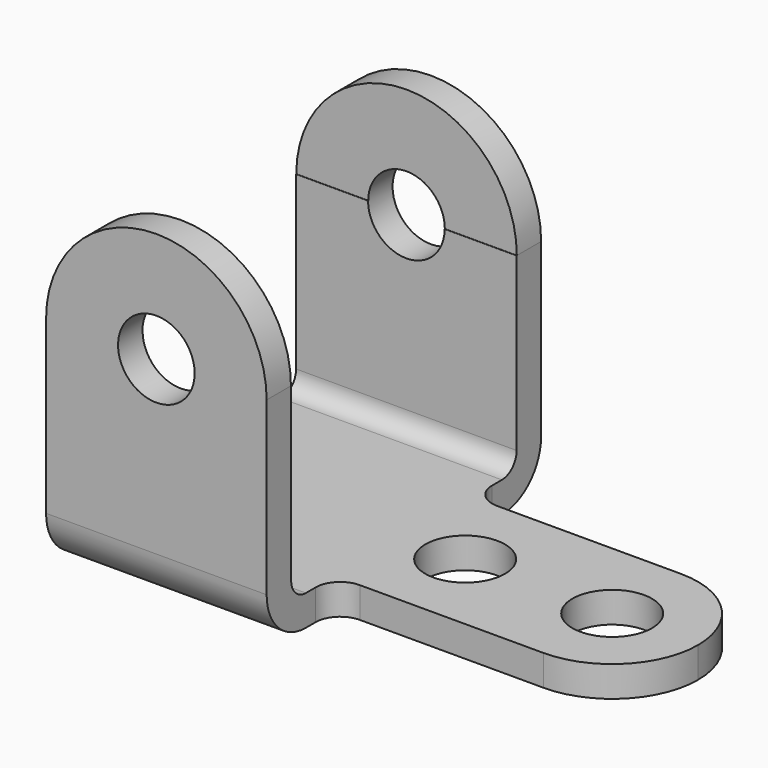
from build123d import *

# Parameters (mm, degrees)
F1_DEPTH  = 57.15
F3_DEPTH  = 7.874
F5_DEPTH  = 7.874
F6_R      = 9.92251
F7_DEPTH  = 25.4
F8_R      = 9.92251
F9_DEPTH  = 25.4
F10_W     = 76.2
F10_H     = 44.45
F11_DEPTH = 7.9375
F12_R     = 10.3251
F13_DEPTH = 25.4
F14_R     = 6.35


with BuildPart() as f1:
    # F0 (on Right) → F1 (new body)
    with BuildSketch(Plane.YZ):
        with BuildLine():
            ThreePointArc((-12.7, 12.7), (-8.9802561211, 3.7197438789), (0, 0))
            Line((0, 0), (63.5, 0))
            ThreePointArc((63.5, 0), (72.4802561211, 3.7197438789), (76.2, 12.7))
            Line((76.2, 12.7), (76.2, 57.15))
            Line((76.2, 57.15), (68.2625, 57.15))
            Line((68.2625, 57.15), (68.2625, 12.7))
            ThreePointArc((68.2625, 12.7), (66.8675960454, 9.3324039546), (63.5, 7.9375))
            Line((63.5, 7.9375), (0, 7.9375))
            ThreePointArc((0, 7.9375), (-3.3675960454, 9.3324039546), (-4.7625, 12.7))
            Line((-4.7625, 12.7), (-4.7625, 57.15))
            Line((-4.7625, 57.15), (-12.7, 57.15))
            Line((-12.7, 57.15), (-12.7, 12.7))
        make_face()
    extrude(amount=F1_DEPTH)

    # F2 (on face) → F3 (join)
    with BuildSketch(Plane.XZ.offset(12.7)):
        with BuildLine():
            Line((0, 57.15), (57.15, 57.15))
            ThreePointArc((57.15, 57.15), (28.575, 85.725), (0, 57.15))
        make_face()
    extrude(amount=-F3_DEPTH)

    # F4 (on face) → F5 (join)
    with BuildSketch(Plane(origin=(0, 76.2, 0), x_dir=(-1, 0, 0), z_dir=(0, 1, 0))):
        with BuildLine():
            Line((-57.15, 57.15), (0, 57.15))
            ThreePointArc((0, 57.15), (-28.575, 85.725), (-57.15, 57.15))
        make_face()
    extrude(amount=-F5_DEPTH)

    # F6 (on face) → F7 (cut)
    with BuildSketch(Plane.XZ.offset(12.7)):
        with Locations((28.575, 57.15)):
            Circle(F6_R)
    extrude(amount=-F7_DEPTH, mode=Mode.SUBTRACT)

    # F8 (on face) → F9 (cut)
    with BuildSketch(Plane(origin=(0, 76.2, 0), x_dir=(-1, 0, 0), z_dir=(0, 1, 0))):
        with Locations((-28.575, 57.15)):
            Circle(F8_R)
    extrude(amount=-F9_DEPTH, mode=Mode.SUBTRACT)

    # F10 (on face) → F11 (join)
    with BuildSketch(Plane.XY.offset(7.9375)):
        with Locations((95.25, 31.75)):
            Rectangle(F10_W, F10_H)
    extrude(amount=-F11_DEPTH)

    # F12 (on face) → F13 (cut)
    with BuildSketch(Plane.XY.offset(7.9375)):
        with Locations((73.025, 31.75)):
            Circle(F12_R)
        with Locations((111.125, 31.75)):
            Circle(F12_R)
        with BuildLine():
            ThreePointArc((111.125, 53.975), (126.8404482119, 47.4654482119), (133.35, 31.75))
            Line((133.35, 31.75), (133.35, 53.975))
            Line((133.35, 53.975), (111.125, 53.975))
        make_face()
        with BuildLine():
            Line((133.35, 9.525), (133.35, 31.75))
            ThreePointArc((133.35, 31.75), (126.8404482119, 16.0345517881), (111.125, 9.525))
            Line((111.125, 9.525), (133.35, 9.525))
        make_face()
    extrude(amount=-F13_DEPTH, mode=Mode.SUBTRACT)

    # F14
    f14_edges = [f1.edges().sort_by_distance(p)[0] for p in [
        (57.15, 9.525, 3.96875),
        (57.15, 53.975, 3.96875),
    ]]
    fillet(f14_edges, radius=F14_R)


solid = f1.part
